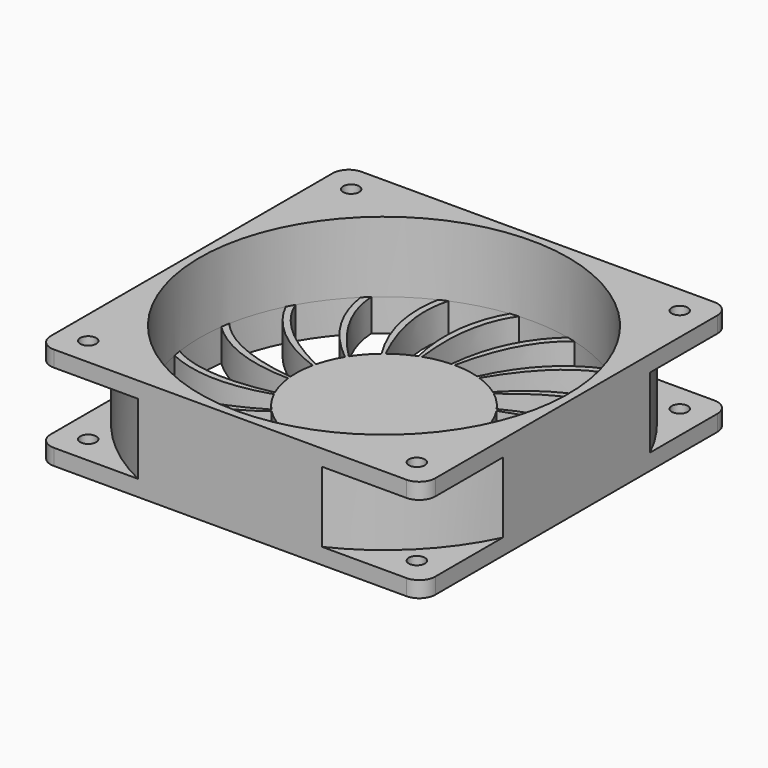
from build123d import *

# Parameters (mm, degrees)
SKETCH_R           = 2.5
PAD_DEPTH          = 16
SKETCH001_W        = 22
SKETCH001_H        = 22
SKETCH001_W_2      = 57.5
POCKET_DEPTH       = 355.39353
POLARPATTERN_COUNT = 19


with BuildPart() as part:
    # Sketch → Pad (new body, symmetric)
    with BuildSketch(Plane.XY):
        with BuildLine():
            Line((-55, -60), (55, -60))
            ThreePointArc((55, -60), (58.535534, -58.535534), (60, -55))
            Line((60, -55), (60, 55))
            ThreePointArc((60, 55), (58.535534, 58.535534), (55, 60))
            Line((55, 60), (-55, 60))
            ThreePointArc((-55, 60), (-58.535534, 58.535534), (-60, 55))
            Line((-60, 55), (-60, -55))
            ThreePointArc((-60, -55), (-58.535534, -58.535534), (-55, -60))
        make_face()
        with Locations((-51.25, 51.25)):
            Circle(SKETCH_R, mode=Mode.SUBTRACT)
        with Locations((51.25, 51.25)):
            Circle(SKETCH_R, mode=Mode.SUBTRACT)
        with Locations((51.25, -51.25)):
            Circle(SKETCH_R, mode=Mode.SUBTRACT)
        with Locations((-51.25, -51.25)):
            Circle(SKETCH_R, mode=Mode.SUBTRACT)
    extrude(amount=PAD_DEPTH, both=True)

    # Sketch001 → Groove (revolve, cut)
    with BuildSketch(Plane.YZ):
        with Locations((-77.5, 0)):
            Rectangle(SKETCH001_W, SKETCH001_H)
        with Locations((-28.75, 5)):
            Rectangle(SKETCH001_W_2, SKETCH001_H)
    revolve(axis=Axis((0, 0, 0), (0, 0, 1)), mode=Mode.SUBTRACT)

    # Sketch002 (on Face36 of Groove) → Pocket (cut, through all)
    with BuildSketch(Plane.XY.offset(-6)):
        with BuildLine():
            ThreePointArc((8, 26.310644), (4.043964, 27.201036), (0, 27.5))
            add(Edge.make_bspline(
                [(0, 27.5), (4.25, 47.76), (15, 55.509017)],
                knots=[0, 0, 0, 1, 1, 1], degree=2))
            ThreePointArc((15, 55.509017), (22.730338, 52.8165), (30, 49.053552))
            add(Edge.make_bspline(
                [(8, 26.310644), (15.75, 43.17), (30, 49.053552)],
                knots=[0, 0, 0, 1, 1, 1], degree=2))
        make_face()
    pocket = extrude(amount=-POCKET_DEPTH, mode=Mode.SUBTRACT)

    # PolarPattern: Pocket ×19 about axis
    polarpattern_axis = Axis((0, 0, -6), (0, 0, 1))
    for i in range(1, POLARPATTERN_COUNT):
        add(pocket.rotate(polarpattern_axis, i * 360 / POLARPATTERN_COUNT), mode=Mode.SUBTRACT)


solid = part.part
